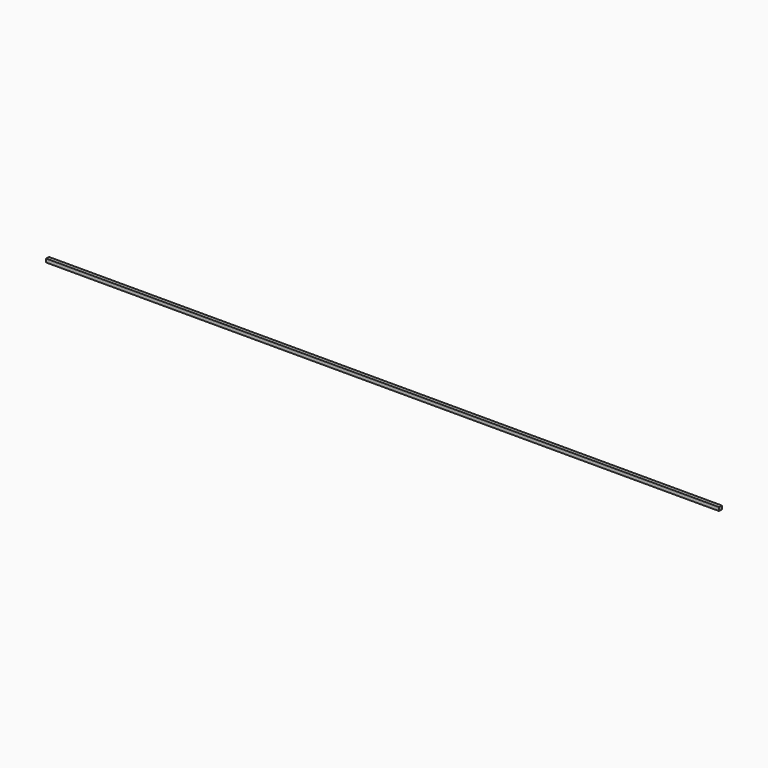
from build123d import *

# Parameters (mm, degrees)
F0_W     = 609.6
F0_H     = 3.175
F1_DEPTH = 3.175


with BuildPart() as f1:
    # F0 (on Front) → F1 (new body)
    with BuildSketch(Plane.XZ):
        with Locations((4.777098, -37.534049)):
            Rectangle(F0_W, F0_H)
    extrude(amount=F1_DEPTH)


with BuildPart() as f2_1:
    # F2: copy of F1
    add(f1.part)


with BuildPart() as f3_1:
    # F3: copy of F1
    add(f1.part)


with BuildPart() as f4_1:
    # F4: copy of F3_1
    add(f3_1.part)


with BuildPart() as f4_2:
    # F4: copy of F1
    add(f1.part)


solid = Compound([f1.part, f2_1.part, f3_1.part, f4_1.part, f4_2.part])
